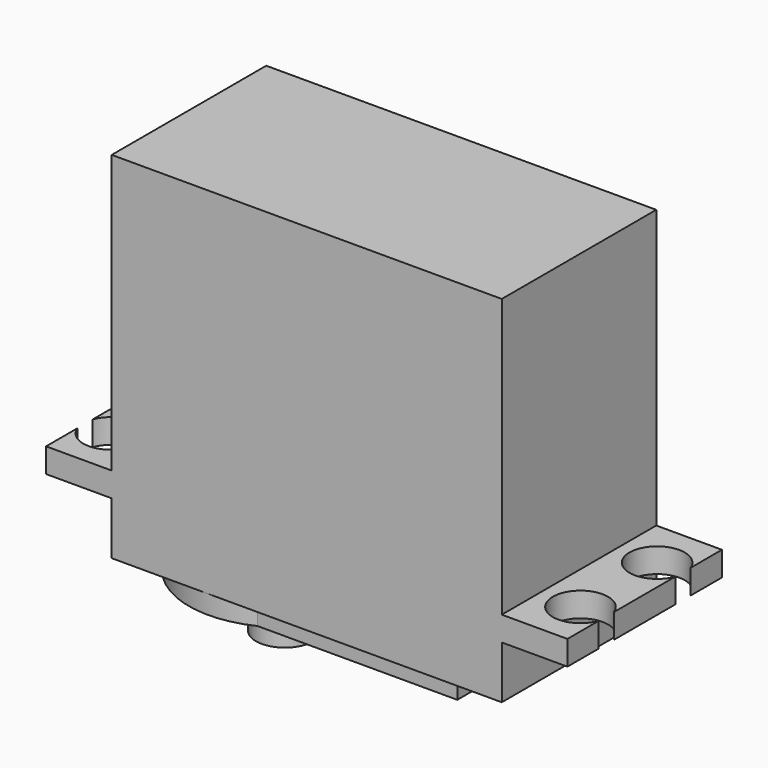
from build123d import *

# Parameters (mm, degrees)
SKETCH221_W             = 40.7
SKETCH221_H             = 20.15
PAD150_DEPTH            = 29
PAD151_DEPTH            = 2.55
SKETCH223_W             = 40.7
SKETCH223_H             = 20.15
PAD152_DEPTH            = 5.5
PAD153_DEPTH            = 2
SKETCH225_R             = 6.5
PAD154_DEPTH            = 1.3
SKETCH226_R             = 5.5
PAD155_DEPTH            = 0.7
SKETCH227_R             = 3
PAD156_DEPTH            = 3.5
BODY124_PLACEMENT_ANGLE = 180
BODY135_PLACEMENT_ANGLE = 180


with BuildPart() as part:
    # Sketch221 → Pad150 (new body)
    with BuildSketch(Plane.XY):
        Rectangle(SKETCH221_W, SKETCH221_H)
    extrude(amount=-PAD150_DEPTH)

    # Sketch222 (on Face5 of Pad150) → Pad151 (join)
    with BuildSketch(Plane.XY):
        with BuildLine():
            Line((-27.2, 10.075), (27.2, 10.075))
            Line((27.2, 10.075), (27.2, 6))
            ThreePointArc((27.2, 6), (21.620764, 5), (27.2, 4))
            Line((27.2, 4), (27.2, -4))
            ThreePointArc((27.2, -4), (21.620764, -5), (27.2, -6))
            Line((27.2, -6), (27.2, -10.075))
            Line((27.2, -10.075), (-27.2, -10.075))
            Line((-27.2, -10.075), (-27.2, -6))
            ThreePointArc((-27.2, -6), (-21.620764, -5), (-27.2, -4))
            Line((-27.2, 4), (-27.2, -4))
            ThreePointArc((-27.2, 4), (-21.620764, 5), (-27.2, 6))
            Line((-27.2, 10.075), (-27.2, 6))
        make_face()
    extrude(amount=PAD151_DEPTH)

    # Sketch223 (on Face5 of Pad151) → Pad152 (join)
    with BuildSketch(Plane.XY.offset(2.55)):
        Rectangle(SKETCH223_W, SKETCH223_H)
    extrude(amount=PAD152_DEPTH)

    # Sketch224 (on Face21 of Pad152) → Pad153 (join)
    with BuildSketch(Plane.XY.offset(8.05)):
        with BuildLine():
            ThreePointArc((5.991101, -9), (20.35, 0), (5.991101, 9))
            Line((5.991101, 9), (-14.85, 9))
            Line((-14.85, 9), (-14.85, 5))
            ThreePointArc((-14.85, 5), (-16.69017, 2.795085), (-17.35, 0))
            ThreePointArc((-17.35, 0), (-16.69017, -2.795085), (-14.85, -5))
            Line((-14.85, -5), (-14.85, -9))
            Line((-14.85, -9), (5.991101, -9))
        make_face()
    extrude(amount=PAD153_DEPTH)

    # Sketch225 (on Face34 of Pad153) → Pad154 (join)
    with BuildSketch(Plane.XY.offset(10.05)):
        with Locations((10.35, 0)):
            Circle(SKETCH225_R)
    extrude(amount=PAD154_DEPTH)

    # Sketch226 (on Face36 of Pad154) → Pad155 (join)
    with BuildSketch(Plane.XY.offset(11.35)):
        with Locations((10.35, 0)):
            Circle(SKETCH226_R)
    extrude(amount=PAD155_DEPTH)

    # Sketch227 (on Face38 of Pad155) → Pad156 (join)
    with BuildSketch(Plane.XY.offset(12.05)):
        with Locations((10.35, 0)):
            Circle(SKETCH227_R)
    extrude(amount=PAD156_DEPTH)


with BuildPart() as part_1:
    # Body124 placement: moved
    add(part.part.moved(Location((-58.5, 0, 88.5))).rotate(Axis((-58.5, 0, 88.5), (1, 0, 0)), BODY124_PLACEMENT_ANGLE))


with BuildPart() as part_2:
    # Body135 placement: moved
    add(part_1.part.rotate(Axis((0, 0, 0), (0, 0, 1)), BODY135_PLACEMENT_ANGLE))


solid = part_2.part
